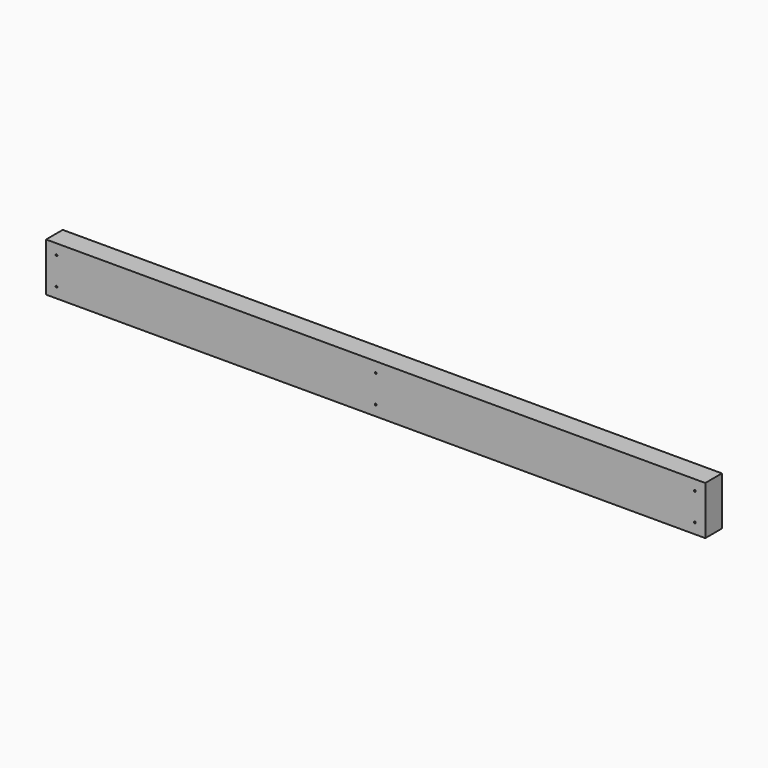
from build123d import *

# Parameters (mm, degrees)
F0_W     = 1206.5
F0_H     = 88.9
F1_DEPTH = 38.1
F2_R     = 1.5875
F3_DEPTH = 38.101


with BuildPart() as f1:
    # F0 (on Front) → F1 (new body)
    with BuildSketch(Plane.XZ):
        with Locations((603.25, -44.45)):
            Rectangle(F0_W, F0_H)
    extrude(amount=-F1_DEPTH)

    # F2 (on Front) → F3 (cut, through all)
    with BuildSketch(Plane.XZ):
        with Locations((19.05, -19.05)):
            Circle(F2_R)
        with Locations((19.05, -69.85)):
            Circle(F2_R)
        with Locations((603.25, -19.05)):
            Circle(F2_R)
        with Locations((603.25, -69.85)):
            Circle(F2_R)
        with Locations((1187.45, -19.05)):
            Circle(F2_R)
        with Locations((1187.45, -69.85)):
            Circle(F2_R)
    extrude(amount=-F3_DEPTH, mode=Mode.SUBTRACT)


solid = f1.part
